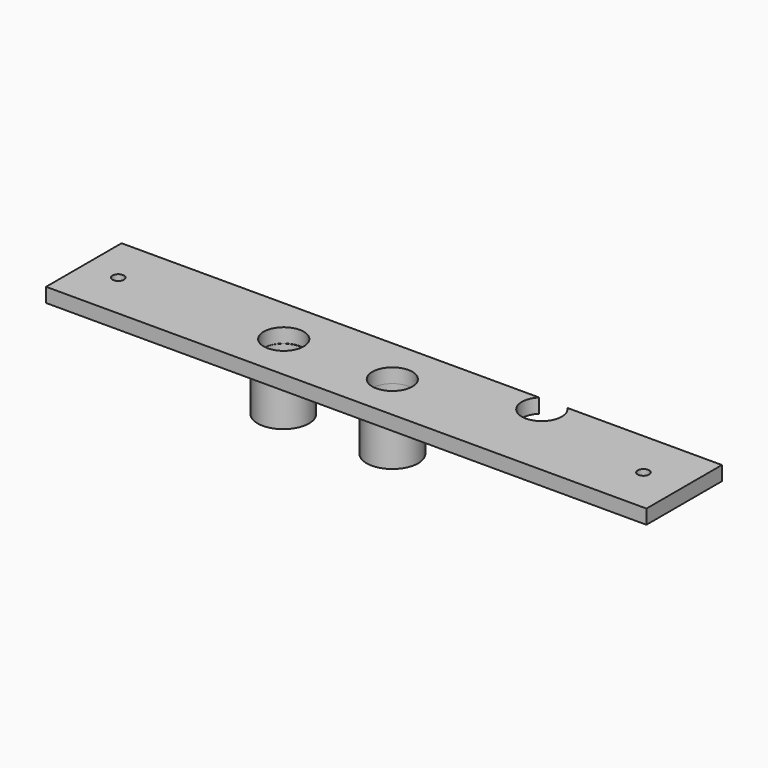
from build123d import *

# Parameters (mm, degrees)
F0_W       = 105
F0_H       = 16.5
F1_DEPTH   = 2.5
F2_R       = 3.5
F2_R_2     = 1
F1_FACE1_W = 105
F1_FACE1_H = 16.5
F3_DEPTH   = 2.5
F5_R       = 4.5
F5_R_2     = 3.5
F6_DEPTH   = 9
F7_DEPTH   = 9


with BuildPart() as f1:
    # F0 (on Top) → F1 (new body)
    with BuildSketch(Plane.XY):
        with Locations((12.898709625, 16.1374760096)):
            Rectangle(F0_W, F0_H)
    extrude(amount=-F1_DEPTH)

    # F2 (on face) + F1_face1 (on face) → F3 (cut)
    with BuildSketch(Plane.XY):
        with BuildLine():
            ThreePointArc((33.4492198822, 24.3874760096), (34.5428361242, 18.6607738154), (39.398709625, 21.8874760096))
            ThreePointArc((39.398709625, 21.8874760096), (39.1254118192, 23.2433495104), (38.3481993678, 24.3874760096))
            Line((38.3481993678, 24.3874760096), (33.4492198822, 24.3874760096))
        make_face()
        with Locations((-4.6013260893, 16.0874760096)):
            Circle(F2_R)
        with Locations((14.3986739107, 16.0874760096)):
            Circle(F2_R)
        with Locations((-33.6013682725, 16.1680499117)):
            Circle(F2_R_2)
        with Locations((58.4004792942, 15.9800840236)):
            Circle(F2_R_2)
    with BuildSketch(Plane(origin=(12.898709625, 16.1374760096, -2.5), x_dir=(1, 0, 0), z_dir=(0, 0, -1))):
        Rectangle(F1_FACE1_W, F1_FACE1_H)
    extrude(amount=-F3_DEPTH, dir=(0, 0, 1), mode=Mode.SUBTRACT)

    # F5 (on face) → F6 (join)
    with BuildSketch(Plane(origin=(0, 0, -2.5), x_dir=(1, 0, 0), z_dir=(0, 0, -1))):
        with Locations((-4.5977425762, -16.0039048642)):
            Circle(F5_R)
        with Locations((-4.5977425762, -16.0039048642)):
            Circle(F5_R_2, mode=Mode.SUBTRACT)
        with Locations((14.3961599097, -16.0959586501)):
            Circle(F5_R)
        with Locations((14.3961599097, -16.0959586501)):
            Circle(F5_R_2, mode=Mode.SUBTRACT)
    extrude(amount=F6_DEPTH)

    # F5 (on face) → F7 (join)
    with BuildSketch(Plane(origin=(0, 0, -2.5), x_dir=(1, 0, 0), z_dir=(0, 0, -1))):
        with Locations((-4.5977425762, -16.0039048642)):
            Circle(F5_R)
        with Locations((-4.5977425762, -16.0039048642)):
            Circle(F5_R_2, mode=Mode.SUBTRACT)
        with Locations((14.3961599097, -16.0959586501)):
            Circle(F5_R)
        with Locations((14.3961599097, -16.0959586501)):
            Circle(F5_R_2, mode=Mode.SUBTRACT)
    extrude(amount=F7_DEPTH)


solid = f1.part
